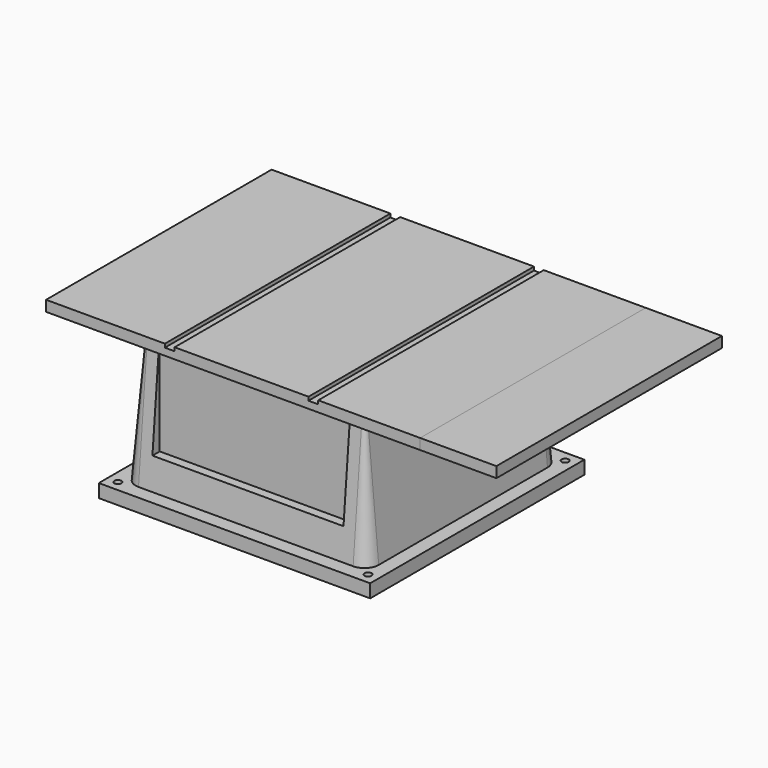
from build123d import *

# Parameters (mm, degrees)
F0_W      = 669.925
F0_H      = 504.825
F1_DEPTH  = 19.05
F2_DEPTH  = 136.525
F5_DEPTH  = 241.3
F5_TAPER  = 5
F7_DEPTH  = 23.8125
F4_W      = 485.9756112814
F4_H      = 479.425
F4_R      = 6.35
F8_DEPTH  = 23.8125
F9_W      = 342.1535822638
F9_H      = 49.6860145088
F10_DEPTH = 186.944
F11_W     = 17.4625
F11_H     = 6.35
F12_DEPTH = 504.825


with BuildPart() as f1:
    # F0 (on Top) → F1 (new body)
    with BuildSketch(Plane.XY):
        Rectangle(F0_W, F0_H)
    extrude(amount=-F1_DEPTH)


with BuildPart() as f2:
    # F2 (new): a face of the model
    f2_faces = [f1.part.faces().sort_by_distance(p)[0] for p in [
        (334.9625, 0, -9.525),
    ]]
    extrude(f2_faces, amount=F2_DEPTH)


with BuildPart() as f1_1:
    add(f1.part)

    # F4 (on offset) → F5 (join, through all)
    with BuildSketch(Plane.XY.offset(-260.35)):
        with BuildLine():
            ThreePointArc((-217.6881112814, -198.4375), (-210.2486235235, -216.3980122421), (-192.2881112814, -223.8375))
            Line((-192.2881112814, -223.8375), (192.0875, -223.8375))
            ThreePointArc((192.0875, -223.8375), (210.0480122421, -216.3980122421), (217.4875, -198.4375))
            Line((217.4875, -198.4375), (217.4875, 179.3875))
            ThreePointArc((217.4875, 179.3875), (210.0480122421, 197.3480122421), (192.0875, 204.7875))
            Line((192.0875, 204.7875), (-192.2881112814, 204.7875))
            ThreePointArc((-192.2881112814, 204.7875), (-210.2486235235, 197.3480122421), (-217.6881112814, 179.3875))
            Line((-217.6881112814, 179.3875), (-217.6881112814, -198.4375))
        make_face()
    extrude(amount=F5_DEPTH, taper=F5_TAPER)

    # F6 (on face) → F7 (join)
    with BuildSketch(Plane(origin=(0, 0, -260.35), x_dir=(1, 0, 0), z_dir=(0, 0, -1))):
        with BuildLine():
            Line((192.0875, 223.8375), (-192.2881112814, 223.8375))
            ThreePointArc((-192.2881112814, 223.8375), (-210.2486235235, 216.3980122421), (-217.6881112814, 198.4375))
            Line((-217.6881112814, 198.4375), (-217.6881112814, -179.3875))
            ThreePointArc((-217.6881112814, -179.3875), (-210.2486235235, -197.3480122421), (-192.2881112814, -204.7875))
            Line((-192.2881112814, -204.7875), (192.0875, -204.7875))
            ThreePointArc((192.0875, -204.7875), (210.0480122421, -197.3480122421), (217.4875, -179.3875))
            Line((217.4875, -179.3875), (217.4875, 198.4375))
            ThreePointArc((217.4875, 198.4375), (210.0480122421, 216.3980122421), (192.0875, 223.8375))
        make_face()
        with BuildLine():
            ThreePointArc((-192.2881112814, -192.0875), (-201.2683674025, -188.3677561211), (-204.9881112814, -179.3875))
            Line((-204.9881112814, -179.3875), (-204.9881112814, 198.4375))
            ThreePointArc((-204.9881112814, 198.4375), (-201.2683674025, 207.4177561211), (-192.2881112814, 211.1375))
            Line((-192.2881112814, 211.1375), (192.0875, 211.1375))
            ThreePointArc((192.0875, 211.1375), (201.0677561211, 207.4177561211), (204.7875, 198.4375))
            Line((204.7875, 198.4375), (204.7875, -179.3875))
            ThreePointArc((204.7875, -179.3875), (201.0677561211, -188.3677561211), (192.0875, -192.0875))
            Line((192.0875, -192.0875), (-192.2881112814, -192.0875))
        make_face(mode=Mode.SUBTRACT)
    extrude(amount=F7_DEPTH)

    # F4 (on offset) → F8 (join)
    with BuildSketch(Plane.XY.offset(-260.35)):
        with Locations((-0.1003056407, -9.525)):
            Rectangle(F4_W, F4_H)
        with Locations((-224.0381112814, -230.1875)):
            Circle(F4_R, mode=Mode.SUBTRACT)
        with BuildLine():
            Line((192.0875, -223.8375), (-192.2881112814, -223.8375))
            ThreePointArc((-192.2881112814, -223.8375), (-210.2486235235, -216.3980122421), (-217.6881112814, -198.4375))
            Line((-217.6881112814, -198.4375), (-217.6881112814, 179.3875))
            ThreePointArc((-217.6881112814, 179.3875), (-210.2486235235, 197.3480122421), (-192.2881112814, 204.7875))
            Line((-192.2881112814, 204.7875), (192.0875, 204.7875))
            ThreePointArc((192.0875, 204.7875), (210.0480122421, 197.3480122421), (217.4875, 179.3875))
            Line((217.4875, 179.3875), (217.4875, -198.4375))
            ThreePointArc((217.4875, -198.4375), (210.0480122421, -216.3980122421), (192.0875, -223.8375))
        make_face(mode=Mode.SUBTRACT)
        with Locations((223.8375, -230.1875)):
            Circle(F4_R, mode=Mode.SUBTRACT)
        with Locations((-224.0381112814, 211.1375)):
            Circle(F4_R, mode=Mode.SUBTRACT)
        with Locations((223.8375, 211.1375)):
            Circle(F4_R, mode=Mode.SUBTRACT)
    extrude(amount=-F8_DEPTH)

    # F9 (on face) → F10 (cut)
    with BuildSketch(Plane(origin=(0, 0, -19.05), x_dir=(1, 0, 0), z_dir=(0, 0, -1))):
        with Locations((-0.1003056407, 227.5694927456)):
            Rectangle(F9_W, F9_H)
    extrude(amount=F10_DEPTH, mode=Mode.SUBTRACT)

    # F11 (on face) → F12 (cut, through all)
    with BuildSketch(Plane.XZ.offset(252.4125)):
        with Locations((-113.50625, -3.175)):
            Rectangle(F11_W, F11_H)
        with Locations((143.66875, -3.175)):
            Rectangle(F11_W, F11_H)
    extrude(amount=-F12_DEPTH, mode=Mode.SUBTRACT)


solid = Compound([f2.part, f1_1.part])
